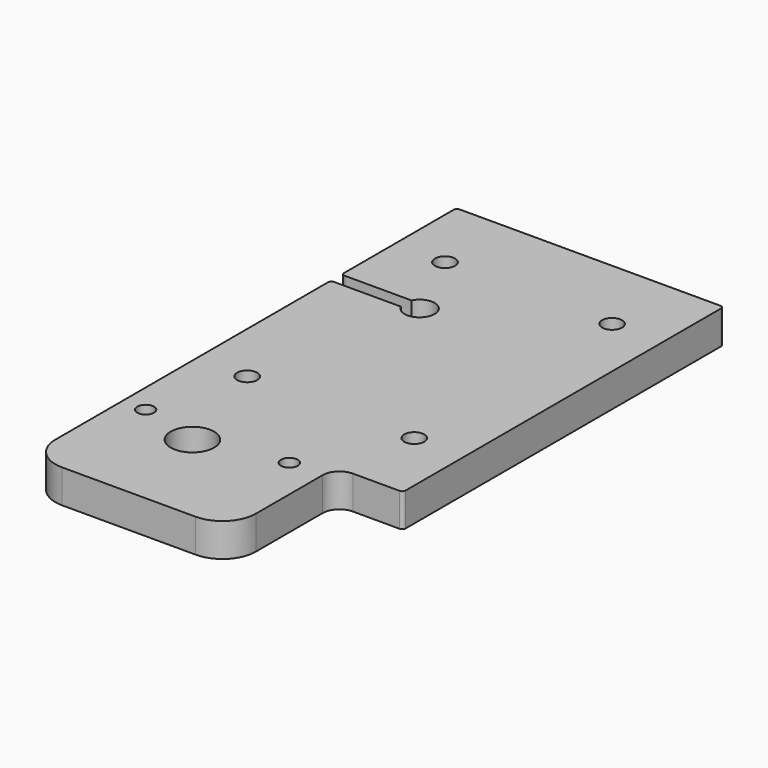
from build123d import *

# Parameters (mm, degrees)
SKETCH_R    = 3
SKETCH_R_2  = 2.5
SKETCH_R_3  = 6.5
PAD_DEPTH   = 10
FILLET_R    = 5
FILLET001_R = 1
FILLET002_R = 10


with BuildPart() as part:
    # Sketch → Pad (new body)
    with BuildSketch(Plane.XY):
        with BuildLine():
            ThreePointArc((-4.031129, -2), (4.5, 0), (-4.031129, 2))
            Line((-4.031129, 2), (-25, 2))
            Line((-25, 45), (-25, 2))
            Line((-25, 45), (55, 45))
            Line((55, 45), (55, -75))
            Line((35, -75), (55, -75))
            Line((35, -115), (35, -75))
            Line((-25, -115), (35, -115))
            Line((-25, -2), (-25, -115))
            Line((-4.031129, -2), (-25, -2))
        make_face()
        with Locations((-10, -52)):
            Circle(SKETCH_R, mode=Mode.SUBTRACT)
        with Locations((40, -52)):
            Circle(SKETCH_R, mode=Mode.SUBTRACT)
        with Locations((40, 22)):
            Circle(SKETCH_R, mode=Mode.SUBTRACT)
        with Locations((-10, 22)):
            Circle(SKETCH_R, mode=Mode.SUBTRACT)
        with Locations((25, -80)):
            Circle(SKETCH_R_2, mode=Mode.SUBTRACT)
        with Locations((-18, -80)):
            Circle(SKETCH_R_2, mode=Mode.SUBTRACT)
        with Locations((0, -85)):
            Circle(SKETCH_R_3, mode=Mode.SUBTRACT)
    extrude(amount=PAD_DEPTH)

    # Fillet
    fillet_edges = [part.edges().sort_by_distance(p)[0] for p in [
        (35, -75, 5),
    ]]
    fillet(fillet_edges, radius=FILLET_R)

    # Fillet001
    fillet001_edges = [part.edges().sort_by_distance(p)[0] for p in [
        (55, -75, 5),
        (55, 45, 5),
        (-25, 2, 5),
        (-25, -2, 5),
        (-25, 45, 5),
    ]]
    fillet(fillet001_edges, radius=FILLET001_R)

    # Fillet002
    fillet002_edges = [part.edges().sort_by_distance(p)[0] for p in [
        (-25, -115, 5),
        (35, -115, 5),
    ]]
    fillet(fillet002_edges, radius=FILLET002_R)


solid = part.part
